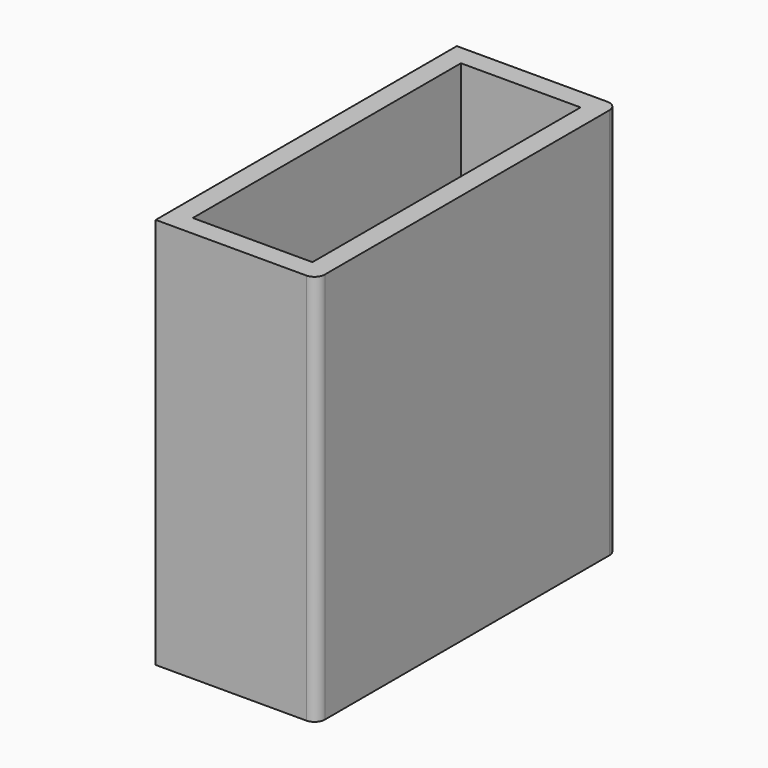
from build123d import *

# Parameters (mm, degrees)
F0_W     = 15.6
F0_H     = 36.5
F1_DEPTH = 38
F2_T     = -2
F3_R     = 1


with BuildPart() as f1:
    # F0 (on Top) → F1 (new body)
    with BuildSketch(Plane.XY):
        with Locations((7.8, 18.25)):
            Rectangle(F0_W, F0_H)
    extrude(amount=F1_DEPTH)

    # F2
    f2_openings = [f1.faces().sort_by_distance(p)[0] for p in [
        (7.8, 18.25, 38),
    ]]
    offset(amount=F2_T, openings=f2_openings)

    # F3
    f3_edges = [f1.edges().sort_by_distance(p)[0] for p in [
        (15.6, 0, 19),
        (15.6, 36.5, 19),
    ]]
    fillet(f3_edges, radius=F3_R)


solid = f1.part
